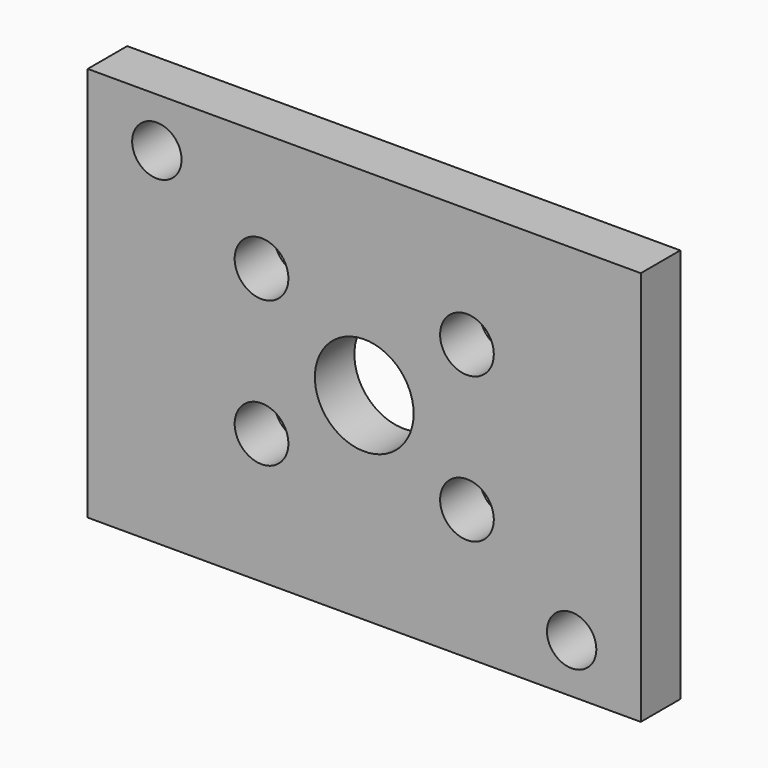
from build123d import *

# Parameters (mm, degrees)
F0_W     = 35.56
F0_H     = 25.4
F1_DEPTH = 3.175
F2_R     = 3.175
F2_R_2   = 1.7272
F3_DEPTH = 3.176
F4_R     = 1.5875
F5_DEPTH = 3.176


with BuildPart() as f1:
    # F0 (on Front) → F1 (new body)
    with BuildSketch(Plane.XZ):
        Rectangle(F0_W, F0_H)
    extrude(amount=F1_DEPTH)

    # F2 (on face) → F3 (cut, through all)
    with BuildSketch(Plane.XZ.offset(3.175)):
        Circle(F2_R)
        with Locations((6.604, 5.0292)):
            Circle(F2_R_2)
        with Locations((6.604, -4.318)):
            Circle(F2_R_2)
        with Locations((-6.604, -4.318)):
            Circle(F2_R_2)
        with Locations((-6.604, 5.0292)):
            Circle(F2_R_2)
    extrude(amount=-F3_DEPTH, mode=Mode.SUBTRACT)

    # F4 (on face) → F5 (cut, through all)
    with BuildSketch(Plane.XZ.offset(3.175)):
        with Locations((-13.335, 9.525)):
            Circle(F4_R)
        with Locations((13.335, -9.525)):
            Circle(F4_R)
    extrude(amount=-F5_DEPTH, mode=Mode.SUBTRACT)


solid = f1.part
